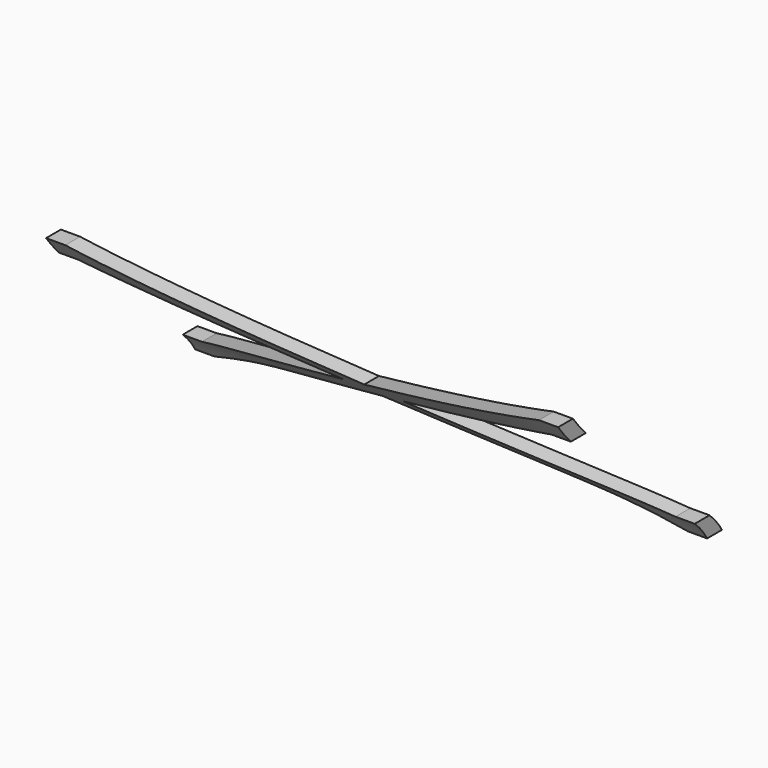
from build123d import *

# Parameters (mm, degrees)
F1_DEPTH = 80
F2_W     = 115.2630522847
F2_H     = 63.0402415991
F3_DEPTH = 50


with BuildPart() as f1:
    # F0 (on Right) → F1 (new body)
    with BuildSketch(Plane.YZ):
        with BuildLine():
            add(Edge.make_bspline(
                [(4.1407536375, 35.3801552647), (4.2758405627, 35.0538718719), (7.2258461835, 29.0660046135), (29.3302090847, 11.4785589747), (33.7961603555, 7.7122646756), (35.460181914, 4.2848211133), (35.8498667485, 3.1943865861)],
                knots=[0.0722973238, 0.0722973238, 0.0722973238, 0.0722973238, 0.0848091888, 0.2906596564, 0.3924191098, 0.4351785649, 0.4351785649, 0.4351785649, 0.4351785649], degree=3))
            Line((35.8498667485, 3.1943865861), (38.397080011, 4.0794351968))
            add(Edge.make_bspline(
                [(7.1589336367, 35.0923453365), (7.2692126818, 34.8534723334), (10.3681905457, 28.8669104967), (32.2223267398, 11.4785589747), (36.5375953872, 7.8393406492), (38.078875768, 4.8330086497), (38.397080011, 4.0794351968)],
                knots=[0.0759211795, 0.0759211795, 0.0759211795, 0.0759211795, 0.0848091888, 0.2906596564, 0.3924191098, 0.4233569902, 0.4233569902, 0.4233569902, 0.4233569902], degree=3))
            Line((7.1589336367, 35.0923453365), (4.1407536375, 35.3801552647))
        make_face()
    extrude(amount=F1_DEPTH)

    # F2 (on Front) → F3 (cut)
    with BuildSketch(Plane.XZ):
        with Locations((41.0025008023, 15.8190391958)):
            Rectangle(F2_W, F2_H)
        Polygon((0, 30.1482619814), (0, 33.1482619814), (3, 33.1482619814), (40, 21.0831741459), (77, 33.1482619814), (80, 33.1482619814), (80, 30.1482619814), (77, 30.1482619814), (44.6000493951, 19.5831741459), (77, 9.0180863104), (80, 9.0180863104), (80, 6.0180863104), (77, 6.0180863104), (40, 18.0831741459), (3, 6.0180863104), (0, 6.0180863104), (0, 9.0180863104), (3, 9.0180863104), (35.3999506049, 19.5831741459), (3, 30.1482619814), align=None, mode=Mode.SUBTRACT)
    extrude(amount=-F3_DEPTH, mode=Mode.SUBTRACT)


solid = f1.part
